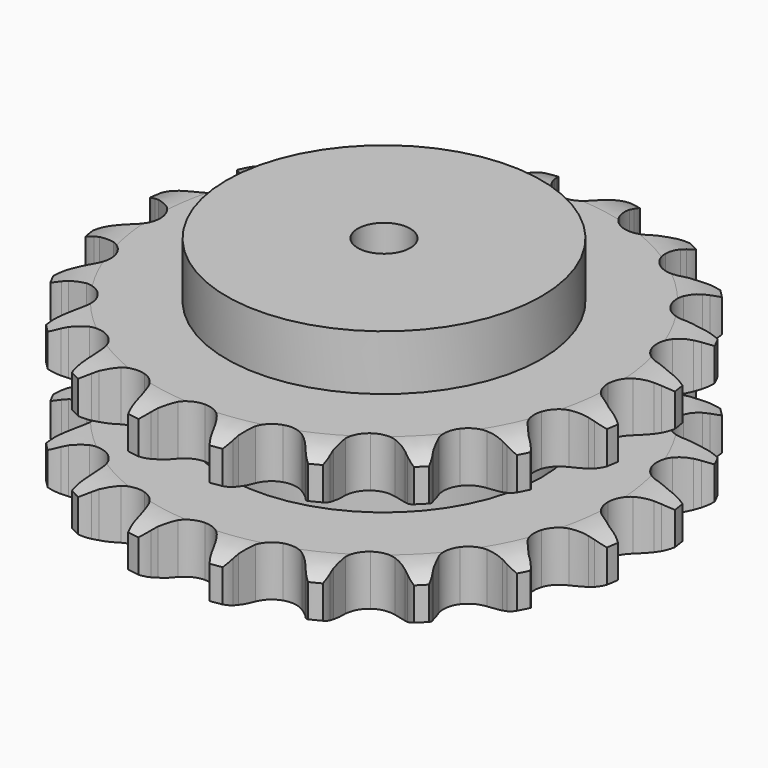
from build123d import *

# Parameters (mm, degrees)
PAD_DEPTH         = 88.4
SKETCH001_R       = 90
PAD001_DEPTH      = 120
SKETCH002_R       = 15
POCKET_DEPTH      = 0.001
POCKET_DEPTH_BACK = 120.001


with BuildPart() as part:
    # Sprocket → Pad (new body)
    with BuildSketch(Plane.XY):
        with BuildLine():
            ThreePointArc((-24.422601, 154.198231), (-20.272242, 150.013341), (-17.3145, 144.91525))
            Line((-17.3145, 144.91525), (-15.969812, 141.716365))
            ThreePointArc((-15.969812, 141.716365), (-13.807713, 137.398753), (-11.093576, 133.405021))
            ThreePointArc((-11.093576, 133.405021), (-6.171367, 129.419095), (0, 127.994323))
            ThreePointArc((0, 127.994323), (6.171367, 129.419095), (11.093576, 133.405021))
            ThreePointArc((11.093576, 133.405021), (13.807713, 137.398753), (15.969812, 141.716365))
            Line((15.969812, 141.716365), (17.3145, 144.91525))
            ThreePointArc((17.3145, 144.91525), (20.272242, 150.013341), (24.422601, 154.198231))
            ThreePointArc((24.422601, 154.198231), (27.076624, 148.935633), (28.314207, 143.173068))
            Line((28.314207, 143.173068), (28.604571, 139.715215))
            ThreePointArc((28.604571, 139.715215), (29.326634, 134.940798), (30.673801, 130.303818))
            ThreePointArc((30.673801, 130.303818), (34.123381, 124.991931), (39.552421, 121.729835))
            ThreePointArc((39.552421, 121.729835), (45.862019, 121.177817), (51.775036, 123.447611))
            Line((51.775036, 123.447611), (58.980959, 129.845329))
            ThreePointArc((58.980959, 129.845329), (60.083357, 131.185735), (61.248343, 132.472118))
            ThreePointArc((61.248343, 132.472118), (65.63672, 136.406698), (70.877147, 139.104234))
            ThreePointArc((70.877147, 139.104234), (71.775041, 133.279068), (71.171322, 127.416108))
            Line((71.171322, 127.416108), (70.37894, 124.037767))
            ThreePointArc((70.37894, 124.037767), (69.590286, 119.273897), (69.438613, 114.44757))
            ThreePointArc((69.438613, 114.44757), (71.077895, 108.329686), (75.233175, 103.549582))
            ThreePointArc((75.233175, 103.549582), (81.063376, 101.074809), (87.388396, 101.406289))
            Line((87.388396, 101.406289), (96.218639, 105.264127))
            ThreePointArc((96.218639, 105.264127), (97.68129, 106.19827), (99.186772, 107.061693))
            ThreePointArc((99.186772, 107.061693), (104.576218, 109.447618), (110.393745, 110.393745))
            ThreePointArc((110.393745, 110.393745), (109.447618, 104.576218), (107.061693, 99.186772))
            Line((107.061693, 99.186772), (105.264127, 96.218639))
            ThreePointArc((105.264127, 96.218639), (103.041956, 91.931636), (101.406289, 87.388396))
            ThreePointArc((101.406289, 87.388396), (101.074809, 81.063376), (103.549582, 75.233175))
            ThreePointArc((103.549582, 75.233175), (108.329686, 71.077895), (114.44757, 69.438613))
            Line((114.44757, 69.438613), (124.037767, 70.37894))
            ThreePointArc((124.037767, 70.37894), (125.717498, 70.815378), (127.416108, 71.171322))
            ThreePointArc((127.416108, 71.171322), (133.279068, 71.775041), (139.104234, 70.877147))
            ThreePointArc((139.104234, 70.877147), (136.406698, 65.63672), (132.472118, 61.248343))
            Line((132.472118, 61.248343), (129.845329, 58.980959))
            ThreePointArc((129.845329, 58.980959), (126.407162, 55.590466), (123.447611, 51.775036))
            ThreePointArc((123.447611, 51.775036), (121.177817, 45.862019), (121.729835, 39.552421))
            ThreePointArc((121.729835, 39.552421), (124.991931, 34.123381), (130.303818, 30.673801))
            Line((130.303818, 30.673801), (139.715215, 28.604571))
            ThreePointArc((139.715215, 28.604571), (141.447601, 28.500583), (143.173068, 28.314207))
            ThreePointArc((143.173068, 28.314207), (148.935633, 27.076624), (154.198231, 24.422601))
            ThreePointArc((154.198231, 24.422601), (150.013341, 20.272242), (144.91525, 17.3145))
            Line((144.91525, 17.3145), (141.716365, 15.969812))
            ThreePointArc((141.716365, 15.969812), (137.398753, 13.807713), (133.405021, 11.093576))
            ThreePointArc((133.405021, 11.093576), (129.419095, 6.171367), (127.994323, 0))
            ThreePointArc((127.994323, 0), (129.419095, -6.171367), (133.405021, -11.093576))
            Line((133.405021, -11.093576), (141.716365, -15.969812))
            ThreePointArc((141.716365, -15.969812), (143.331827, -16.604047), (144.91525, -17.3145))
            ThreePointArc((144.91525, -17.3145), (150.013341, -20.272242), (154.198231, -24.422601))
            ThreePointArc((154.198231, -24.422601), (148.935633, -27.076624), (143.173068, -28.314207))
            Line((143.173068, -28.314207), (139.715215, -28.604571))
            ThreePointArc((139.715215, -28.604571), (134.940798, -29.326634), (130.303818, -30.673801))
            ThreePointArc((130.303818, -30.673801), (124.991931, -34.123381), (121.729835, -39.552421))
            ThreePointArc((121.729835, -39.552421), (121.177817, -45.862019), (123.447611, -51.775036))
            Line((123.447611, -51.775036), (129.845329, -58.980959))
            ThreePointArc((129.845329, -58.980959), (131.185735, -60.083357), (132.472118, -61.248343))
            ThreePointArc((132.472118, -61.248343), (136.406698, -65.63672), (139.104234, -70.877147))
            ThreePointArc((139.104234, -70.877147), (133.279068, -71.775041), (127.416108, -71.171322))
            Line((127.416108, -71.171322), (124.037767, -70.37894))
            ThreePointArc((124.037767, -70.37894), (119.273897, -69.590286), (114.44757, -69.438613))
            ThreePointArc((114.44757, -69.438613), (108.329686, -71.077895), (103.549582, -75.233175))
            ThreePointArc((103.549582, -75.233175), (101.074809, -81.063376), (101.406289, -87.388396))
            Line((101.406289, -87.388396), (105.264127, -96.218639))
            ThreePointArc((105.264127, -96.218639), (106.19827, -97.68129), (107.061693, -99.186772))
            ThreePointArc((107.061693, -99.186772), (109.447618, -104.576218), (110.393745, -110.393745))
            ThreePointArc((110.393745, -110.393745), (104.576218, -109.447618), (99.186772, -107.061693))
            Line((99.186772, -107.061693), (96.218639, -105.264127))
            ThreePointArc((96.218639, -105.264127), (91.931636, -103.041956), (87.388396, -101.406289))
            ThreePointArc((87.388396, -101.406289), (81.063376, -101.074809), (75.233175, -103.549582))
            ThreePointArc((75.233175, -103.549582), (71.077895, -108.329686), (69.438613, -114.44757))
            Line((69.438613, -114.44757), (70.37894, -124.037767))
            ThreePointArc((70.37894, -124.037767), (70.815378, -125.717498), (71.171322, -127.416108))
            ThreePointArc((71.171322, -127.416108), (71.775041, -133.279068), (70.877147, -139.104234))
            ThreePointArc((70.877147, -139.104234), (65.63672, -136.406698), (61.248343, -132.472118))
            Line((61.248343, -132.472118), (58.980959, -129.845329))
            ThreePointArc((58.980959, -129.845329), (55.590466, -126.407162), (51.775036, -123.447611))
            ThreePointArc((51.775036, -123.447611), (45.862019, -121.177817), (39.552421, -121.729835))
            ThreePointArc((39.552421, -121.729835), (34.123381, -124.991931), (30.673801, -130.303818))
            Line((30.673801, -130.303818), (28.604571, -139.715215))
            ThreePointArc((28.604571, -139.715215), (28.500583, -141.447601), (28.314207, -143.173068))
            ThreePointArc((28.314207, -143.173068), (27.076624, -148.935633), (24.422601, -154.198231))
            ThreePointArc((24.422601, -154.198231), (20.272242, -150.013341), (17.3145, -144.91525))
            Line((17.3145, -144.91525), (15.969812, -141.716365))
            ThreePointArc((15.969812, -141.716365), (13.807713, -137.398753), (11.093576, -133.405021))
            ThreePointArc((11.093576, -133.405021), (6.171367, -129.419095), (0, -127.994323))
            ThreePointArc((0, -127.994323), (-6.171367, -129.419095), (-11.093576, -133.405021))
            Line((-11.093576, -133.405021), (-15.969812, -141.716365))
            ThreePointArc((-15.969812, -141.716365), (-16.604047, -143.331827), (-17.3145, -144.91525))
            ThreePointArc((-17.3145, -144.91525), (-20.272242, -150.013341), (-24.422601, -154.198231))
            ThreePointArc((-24.422601, -154.198231), (-27.076624, -148.935633), (-28.314207, -143.173068))
            Line((-28.314207, -143.173068), (-28.604571, -139.715215))
            ThreePointArc((-28.604571, -139.715215), (-29.326634, -134.940798), (-30.673801, -130.303818))
            ThreePointArc((-30.673801, -130.303818), (-34.123381, -124.991931), (-39.552421, -121.729835))
            ThreePointArc((-39.552421, -121.729835), (-45.862019, -121.177817), (-51.775036, -123.447611))
            Line((-51.775036, -123.447611), (-58.980959, -129.845329))
            ThreePointArc((-58.980959, -129.845329), (-60.083357, -131.185735), (-61.248343, -132.472118))
            ThreePointArc((-61.248343, -132.472118), (-65.63672, -136.406698), (-70.877147, -139.104234))
            ThreePointArc((-70.877147, -139.104234), (-71.775041, -133.279068), (-71.171322, -127.416108))
            Line((-71.171322, -127.416108), (-70.37894, -124.037767))
            ThreePointArc((-70.37894, -124.037767), (-69.590286, -119.273897), (-69.438613, -114.44757))
            ThreePointArc((-69.438613, -114.44757), (-71.077895, -108.329686), (-75.233175, -103.549582))
            ThreePointArc((-75.233175, -103.549582), (-81.063376, -101.074809), (-87.388396, -101.406289))
            Line((-87.388396, -101.406289), (-96.218639, -105.264127))
            ThreePointArc((-96.218639, -105.264127), (-97.68129, -106.19827), (-99.186772, -107.061693))
            ThreePointArc((-99.186772, -107.061693), (-104.576218, -109.447618), (-110.393745, -110.393745))
            ThreePointArc((-110.393745, -110.393745), (-109.447618, -104.576218), (-107.061693, -99.186772))
            Line((-107.061693, -99.186772), (-105.264127, -96.218639))
            ThreePointArc((-105.264127, -96.218639), (-103.041956, -91.931636), (-101.406289, -87.388396))
            ThreePointArc((-101.406289, -87.388396), (-101.074809, -81.063376), (-103.549582, -75.233175))
            ThreePointArc((-103.549582, -75.233175), (-108.329686, -71.077895), (-114.44757, -69.438613))
            Line((-114.44757, -69.438613), (-124.037767, -70.37894))
            ThreePointArc((-124.037767, -70.37894), (-125.717498, -70.815378), (-127.416108, -71.171322))
            ThreePointArc((-127.416108, -71.171322), (-133.279068, -71.775041), (-139.104234, -70.877147))
            ThreePointArc((-139.104234, -70.877147), (-136.406698, -65.63672), (-132.472118, -61.248343))
            Line((-132.472118, -61.248343), (-129.845329, -58.980959))
            ThreePointArc((-129.845329, -58.980959), (-126.407162, -55.590466), (-123.447611, -51.775036))
            ThreePointArc((-123.447611, -51.775036), (-121.177817, -45.862019), (-121.729835, -39.552421))
            ThreePointArc((-121.729835, -39.552421), (-124.991931, -34.123381), (-130.303818, -30.673801))
            Line((-130.303818, -30.673801), (-139.715215, -28.604571))
            ThreePointArc((-139.715215, -28.604571), (-141.447601, -28.500583), (-143.173068, -28.314207))
            ThreePointArc((-143.173068, -28.314207), (-148.935633, -27.076624), (-154.198231, -24.422601))
            ThreePointArc((-154.198231, -24.422601), (-150.013341, -20.272242), (-144.91525, -17.3145))
            Line((-144.91525, -17.3145), (-141.716365, -15.969812))
            ThreePointArc((-141.716365, -15.969812), (-137.398753, -13.807713), (-133.405021, -11.093576))
            ThreePointArc((-133.405021, -11.093576), (-129.419095, -6.171367), (-127.994323, 0))
            ThreePointArc((-127.994323, 0), (-129.419095, 6.171367), (-133.405021, 11.093576))
            Line((-133.405021, 11.093576), (-141.716365, 15.969812))
            ThreePointArc((-141.716365, 15.969812), (-143.331827, 16.604047), (-144.91525, 17.3145))
            ThreePointArc((-144.91525, 17.3145), (-150.013341, 20.272242), (-154.198231, 24.422601))
            ThreePointArc((-154.198231, 24.422601), (-148.935633, 27.076624), (-143.173068, 28.314207))
            Line((-143.173068, 28.314207), (-139.715215, 28.604571))
            ThreePointArc((-139.715215, 28.604571), (-134.940798, 29.326634), (-130.303818, 30.673801))
            ThreePointArc((-130.303818, 30.673801), (-124.991931, 34.123381), (-121.729835, 39.552421))
            ThreePointArc((-121.729835, 39.552421), (-121.177817, 45.862019), (-123.447611, 51.775036))
            Line((-123.447611, 51.775036), (-129.845329, 58.980959))
            ThreePointArc((-129.845329, 58.980959), (-131.185735, 60.083357), (-132.472118, 61.248343))
            ThreePointArc((-132.472118, 61.248343), (-136.406698, 65.63672), (-139.104234, 70.877147))
            ThreePointArc((-139.104234, 70.877147), (-133.279068, 71.775041), (-127.416108, 71.171322))
            Line((-127.416108, 71.171322), (-124.037767, 70.37894))
            ThreePointArc((-124.037767, 70.37894), (-119.273897, 69.590286), (-114.44757, 69.438613))
            ThreePointArc((-114.44757, 69.438613), (-108.329686, 71.077895), (-103.549582, 75.233175))
            ThreePointArc((-103.549582, 75.233175), (-101.074809, 81.063376), (-101.406289, 87.388396))
            Line((-101.406289, 87.388396), (-105.264127, 96.218639))
            ThreePointArc((-105.264127, 96.218639), (-106.19827, 97.68129), (-107.061693, 99.186772))
            ThreePointArc((-107.061693, 99.186772), (-109.447618, 104.576218), (-110.393745, 110.393745))
            ThreePointArc((-110.393745, 110.393745), (-104.576218, 109.447618), (-99.186772, 107.061693))
            Line((-99.186772, 107.061693), (-96.218639, 105.264127))
            ThreePointArc((-96.218639, 105.264127), (-91.931636, 103.041956), (-87.388396, 101.406289))
            ThreePointArc((-87.388396, 101.406289), (-81.063376, 101.074809), (-75.233175, 103.549582))
            ThreePointArc((-75.233175, 103.549582), (-71.077895, 108.329686), (-69.438613, 114.44757))
            Line((-69.438613, 114.44757), (-70.37894, 124.037767))
            ThreePointArc((-70.37894, 124.037767), (-70.815378, 125.717498), (-71.171322, 127.416108))
            ThreePointArc((-71.171322, 127.416108), (-71.775041, 133.279068), (-70.877147, 139.104234))
            ThreePointArc((-70.877147, 139.104234), (-65.63672, 136.406698), (-61.248343, 132.472118))
            Line((-61.248343, 132.472118), (-58.980959, 129.845329))
            ThreePointArc((-58.980959, 129.845329), (-55.590466, 126.407162), (-51.775036, 123.447611))
            ThreePointArc((-51.775036, 123.447611), (-45.862019, 121.177817), (-39.552421, 121.729835))
            ThreePointArc((-39.552421, 121.729835), (-34.123381, 124.991931), (-30.673801, 130.303818))
            Line((-30.673801, 130.303818), (-28.604571, 139.715215))
            ThreePointArc((-28.604571, 139.715215), (-28.500583, 141.447601), (-28.314207, 143.173068))
            ThreePointArc((-28.314207, 143.173068), (-27.076624, 148.935633), (-24.422601, 154.198231))
        make_face()
    extrude(amount=PAD_DEPTH)

    # Sketch → Groove (revolve, cut)
    with BuildSketch(Plane.XZ):
        with BuildLine():
            ThreePointArc((131.128451, 0), (141.61654, 1.268279), (151.5, 5))
            Line((151.5, 5), (151.5, 23.8))
            ThreePointArc((151.5, 23.8), (141.61654, 27.531721), (131.128451, 28.8))
            Line((90, 28.8), (131.128451, 28.8))
            Line((90, 59.6), (90, 28.8))
            Line((131.128451, 59.6), (90, 59.6))
            ThreePointArc((131.128451, 59.6), (141.61654, 60.868279), (151.5, 64.6))
            Line((151.5, 64.6), (151.5, 83.4))
            ThreePointArc((151.5, 83.4), (141.61654, 87.131721), (131.128451, 88.4))
            Line((131.128451, 88.4), (161.5, 88.4))
            Line((161.5, 88.4), (161.5, 0))
            Line((131.128451, 0), (161.5, 0))
        make_face()
    revolve(axis=Axis((0, 0, 0), (0, 0, 1)), mode=Mode.SUBTRACT)

    # Sketch001 → Pad001 (join)
    with BuildSketch(Plane.XY):
        Circle(SKETCH001_R)
    extrude(amount=PAD001_DEPTH)

    # Sketch002 → Pocket (cut, two sides)
    with BuildSketch(Plane.XY) as pocket_sk:
        Circle(SKETCH002_R)
    extrude(amount=-POCKET_DEPTH, mode=Mode.SUBTRACT)
    extrude(pocket_sk.sketch, amount=POCKET_DEPTH_BACK, mode=Mode.SUBTRACT)


solid = part.part
